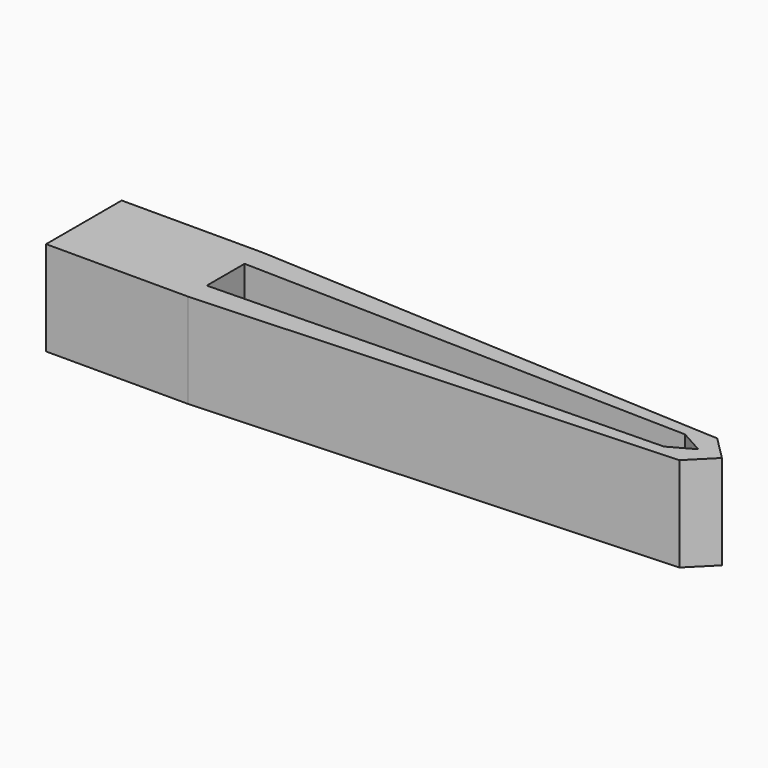
from build123d import *

# Parameters (mm, degrees)
F1_DEPTH = 50.8
F3_DEPTH = 25.4
F5_DEPTH = 25.4


with BuildPart() as f1:
    # F0 (on Top) → F1 (new body)
    with BuildSketch(Plane.XY):
        Polygon((0, 50.8), (0, 0), (76.2, 0), (330.2, 12.7), (342.9, 25.4), (330.2, 38.1), (76.2, 50.8), align=None)
        Polygon((76.2, 12.7), (76.2, 38.1), (317.434589, 32.481896), (330.2, 25.4), (317.434589, 18.318104), align=None, mode=Mode.SUBTRACT)
    extrude(amount=F1_DEPTH)

    # F2 (on face) → F3 (join)
    with BuildSketch(Plane.XY.offset(50.8)):
        Polygon((330.2, 38.1), (76.2, 50.8), (76.2, 38.1), (317.434589, 32.481896), (330.2, 25.4), (317.434589, 18.318104), (76.2, 12.7), (76.2, 0), (330.2, 12.7), (342.9, 25.4), align=None)
    extrude(amount=-F3_DEPTH)

    # F4 (on face) → F5 (join)
    with BuildSketch(Plane.XY.offset(50.8)):
        Polygon((330.2, 38.1), (76.2, 50.8), (76.2, 38.1), (317.434589, 32.481896), (330.2, 25.4), (317.434589, 18.318104), (76.2, 12.7), (76.2, 0), (330.2, 12.7), (342.9, 25.4), align=None)
    extrude(amount=-F5_DEPTH)


solid = f1.part
